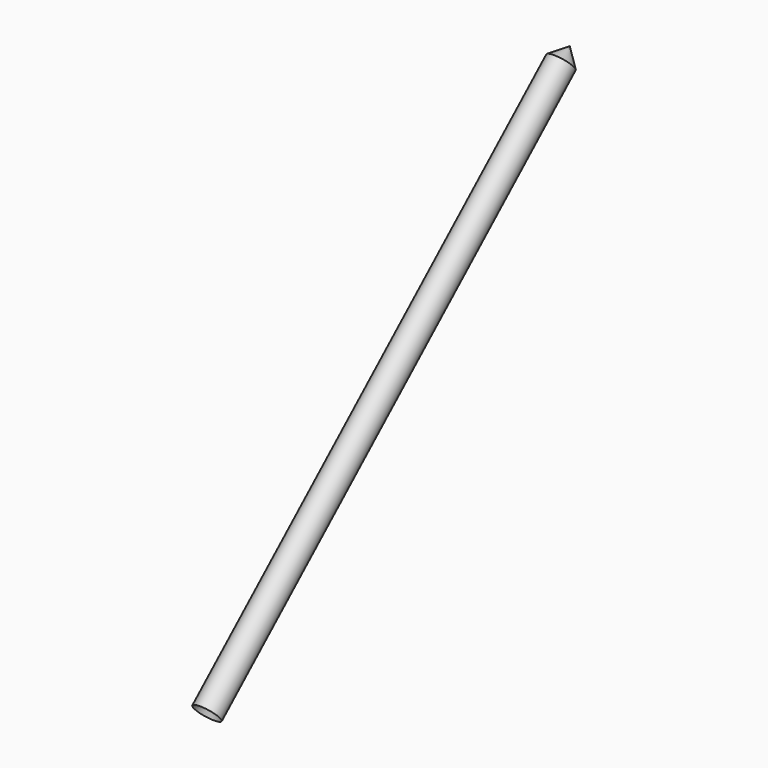
from build123d import *


with BuildPart() as f1:
    # F0 (on Right) → F1 (revolve)
    with BuildSketch(Plane.YZ):
        Polygon((-10.16, 0), (0, 0), (228.6, 203.2), (218.44, 203.2), align=None)
    revolve(axis=Axis((0, 114.3, 101.6), (0, 0.7474093187, 0.6643638388)))


solid = f1.part
